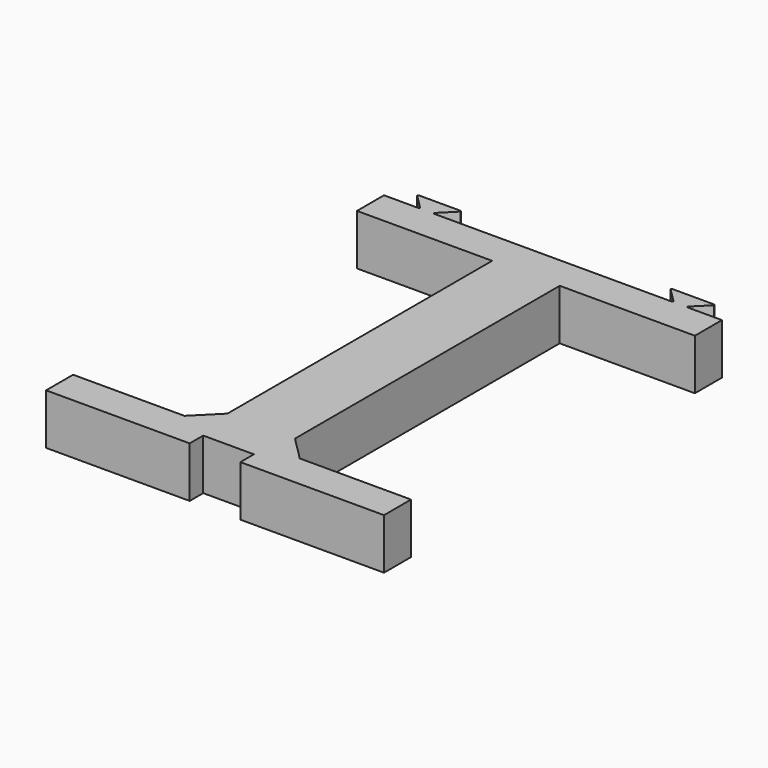
from build123d import *

# Parameters (mm, degrees)
F1_DEPTH = 6
F3_DEPTH = 6
F4_SIZE  = 0.2


with BuildPart() as f1:
    # F0 (on Top) → F1 (new body)
    with BuildSketch(Plane.XY):
        Polygon((6.828427, -46), (4, -43.171573), (4, -46), align=None)
        Polygon((20, 0), (0, 0), (0, -48), (3, -48), (3, -50), (20, -50), (20, -46), (16, -46), (6.828427, -46), (4, -46), (4, -43.171573), (4, -4), (16, -4), (20, -4), align=None)
    extrude(amount=F1_DEPTH)

    # F2 (on Top) → F3 (join, through all)
    with BuildSketch(Plane.XY):
        Polygon((14.3, 0), (15.7, 0), (17.7, 2), (12.3, 2), align=None)
    extrude(amount=F3_DEPTH)

    # F4
    f4_edges = [f1.edges().sort_by_distance(p)[0] for p in [
        (17.7, 2, 3),
        (12.3, 2, 3),
        (15.7, 0, 3),
        (14.3, 0, 3),
    ]]
    chamfer(f4_edges, length=F4_SIZE)

    # F5: F1 across face


with BuildPart() as f1_1:
    add(f1.part)
    add(f1.part.mirror(Plane(origin=(0, -24, 3), x_dir=(0, -1, 0), z_dir=(-1, 0, 0))))


solid = f1_1.part
